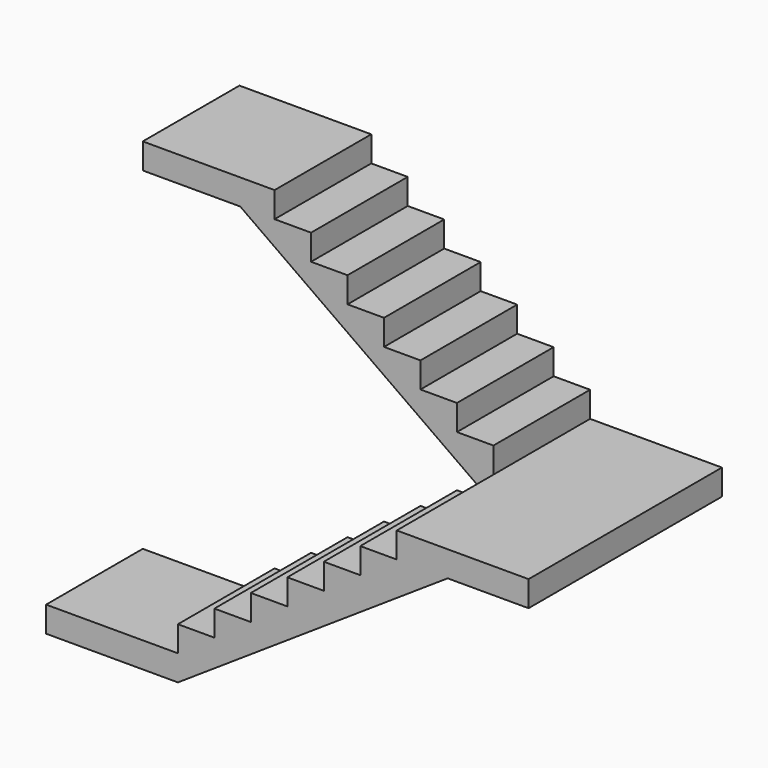
from build123d import *

# Parameters (mm, degrees)
F1_DEPTH = 69.85
F2_DEPTH = 69.85


with BuildPart() as f1:
    # F0 (on Front) → F1 (new body)
    with BuildSketch(Plane.XZ):
        Polygon((-132.521941, -100.065994), (-132.521941, -114.874194), (-56.321941, -114.874194), (99.58236, -11.216794), (70.170059, -11.216794), (49.088059, -11.216794), (49.088059, -26.024994), (28.006059, -26.024994), (28.006059, -40.833194), (6.924059, -40.833194), (6.924059, -55.641394), (-14.157941, -55.641394), (-14.157941, -70.449594), (-35.239941, -70.449594), (-35.239941, -85.257794), (-56.321941, -85.257794), (-56.321941, -100.065994), align=None)
        Polygon((70.170059, -11.216794), (99.58236, -11.216794), (146.370059, -11.216794), (146.370059, 3.591406), (70.170059, 3.591406), align=None)
    extrude(amount=F1_DEPTH)

    # F0 (on Front) → F2 (join)
    with BuildSketch(Plane.XZ):
        Polygon((-76.192113, 92.440606), (70.170059, -11.216794), (70.170059, 3.591406), (70.170059, 18.399606), (49.088059, 18.399606), (49.088059, 33.207806), (28.006059, 33.207806), (28.006059, 48.016006), (6.924059, 48.016006), (6.924059, 62.824206), (-14.157941, 62.824206), (-14.157941, 77.632406), (-35.239941, 77.632406), (-35.239941, 92.440606), (-56.321941, 92.440606), (-56.321941, 107.248806), (-132.521941, 107.248806), (-132.521941, 92.440606), align=None)
        Polygon((70.170059, -11.216794), (99.58236, -11.216794), (146.370059, -11.216794), (146.370059, 3.591406), (70.170059, 3.591406), align=None)
    extrude(amount=-F2_DEPTH)


solid = f1.part
